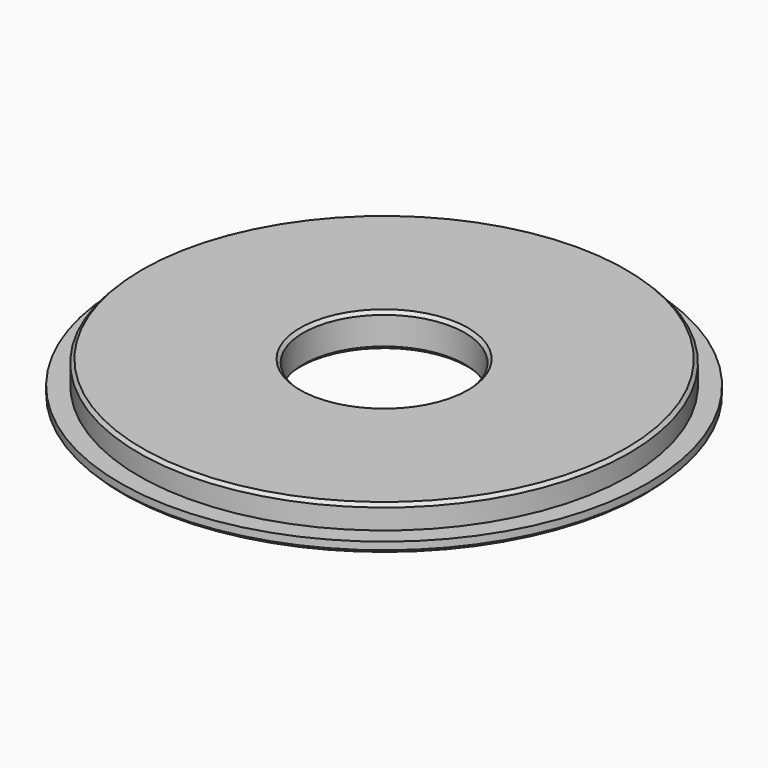
from build123d import *

# Parameters (mm, degrees)
SKETCH_R     = 49
PAD_DEPTH    = 2
SKETCH001_R  = 45.5
PAD001_DEPTH = 6.35
SKETCH002_R  = 15
POCKET_DEPTH = 6.351
CHAMFER_SIZE = 0.6


with BuildPart() as part:
    # Sketch → Pad (new body)
    with BuildSketch(Plane.XY):
        Circle(SKETCH_R)
    extrude(amount=PAD_DEPTH)

    # Sketch001 → Pad001 (join)
    with BuildSketch(Plane.XY):
        Circle(SKETCH001_R)
    extrude(amount=PAD001_DEPTH)

    # Sketch002 → Pocket (cut, through all)
    with BuildSketch(Plane.XY):
        Circle(SKETCH002_R)
    extrude(amount=POCKET_DEPTH, mode=Mode.SUBTRACT)

    # Chamfer
    chamfer_edges = [part.edges().sort_by_distance(p)[0] for p in [
        (-45.5, 0, 6.35),
        (-15, 0, 6.35),
        (-49, 0, 0),
        (-15, 0, 0),
    ]]
    chamfer(chamfer_edges, length=CHAMFER_SIZE)


solid = part.part
